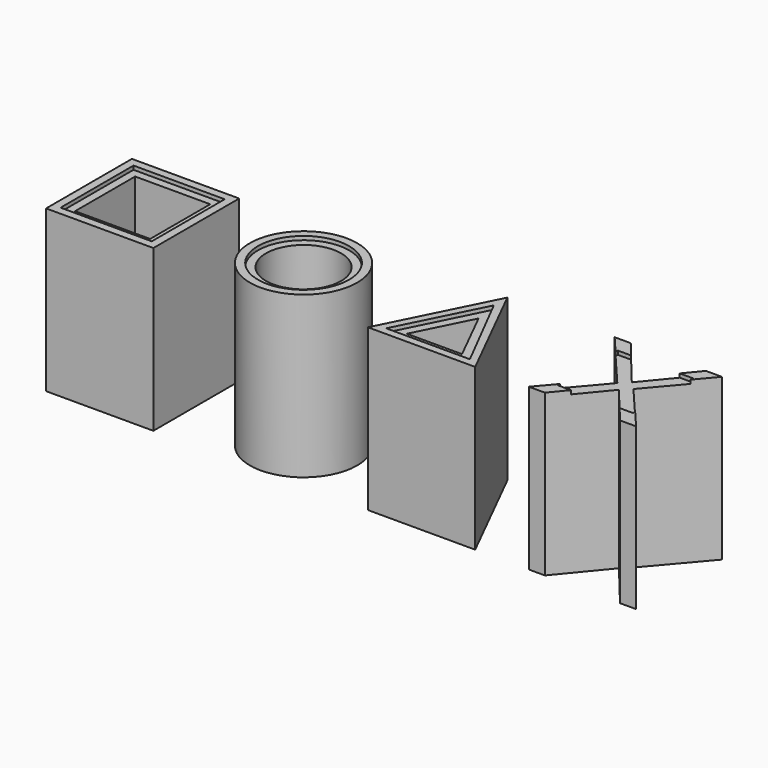
from build123d import *

# Parameters (mm, degrees)
F0_W      = 279.4
F0_H      = 50.8
F1_DEPTH  = 25.4
F2_W      = 50.8
F2_H      = 50.8
F3_DEPTH  = 127
F4_W      = 35.56
F4_H      = 35.56
F5_DEPTH  = 127
F6_R      = 25.4
F6_R_2    = 17.78
F7_DEPTH  = 127
F9_DEPTH  = 127
F11_DEPTH = 127
F12_W     = 305.3418546915
F12_H     = 65.0082696229
F13_DEPTH = 76.2
F14_W     = 43.18
F14_H     = 43.18
F15_DEPTH = 1.778
F16_R     = 21.59
F17_DEPTH = 1.778
F19_DEPTH = 1.778
F20_W     = 35.56
F20_H     = 35.56
F21_DEPTH = 1.778


with BuildPart() as f1:
    # F0 (on Top) → F1 (new body)
    with BuildSketch(Plane.XY):
        Rectangle(F0_W, F0_H)
    extrude(amount=-F1_DEPTH)


with BuildPart() as f3:
    # F2 (on face) → F3 (new body)
    with BuildSketch(Plane.XY):
        with Locations((-114.3, 0)):
            Rectangle(F2_W, F2_H)
    extrude(amount=F3_DEPTH)

    # F4 (on face) → F5 (cut)
    with BuildSketch(Plane.XY.offset(127)):
        with Locations((-114.3, 0)):
            Rectangle(F4_W, F4_H)
    extrude(amount=-F5_DEPTH, mode=Mode.SUBTRACT)


with BuildPart() as f7:
    # F6 (on face) → F7 (new body)
    with BuildSketch(Plane.XY):
        with Locations((-38.1, 0)):
            Circle(F6_R)
        with Locations((-38.1, 0)):
            Circle(F6_R_2, mode=Mode.SUBTRACT)
    extrude(amount=F7_DEPTH)


with BuildPart() as f9:
    # F8 (on face) → F9 (new body)
    with BuildSketch(Plane.XY):
        Polygon((38.1, 25.4), (12.7, -25.4), (63.5, -25.4), align=None)
        Polygon((25.0294189943, -17.78), (38.1, 8.3611620115), (51.1705810057, -17.78), align=None, mode=Mode.SUBTRACT)
    extrude(amount=F9_DEPTH)


with BuildPart() as f11:
    # F10 (on face) → F11 (new body)
    with BuildSketch(Plane.XY):
        Polygon((110.49, 0), (88.9, -25.4), (96.52, -25.4), (114.3, -3.81), (132.08, -25.4), (139.7, -25.4), (118.11, 0), (139.7, 25.4), (132.08, 25.4), (114.3, 3.81), (96.52, 25.4), (88.9, 25.4), align=None)
    extrude(amount=F11_DEPTH)


with BuildPart() as f13_tool:
    # F12 (on face) → F13 (new body)
    with BuildSketch(Plane(origin=(0, 0, -25.4), x_dir=(1, 0, 0), z_dir=(0, 0, -1))):
        with Locations((1.4108642936, 1.3167178258)):
            Rectangle(F12_W, F12_H)
    extrude(amount=-F13_DEPTH)


with BuildPart() as f1_1:
    add(f1.part)

    # F13: cut by f13_tool
    add(f13_tool.part, mode=Mode.SUBTRACT)


with BuildPart() as f3_1:
    add(f3.part)

    # F13: cut by f13_tool
    add(f13_tool.part, mode=Mode.SUBTRACT)

    # F14 (on face) → F15 (cut)
    with BuildSketch(Plane.XY.offset(127)):
        with Locations((-114.3, 0)):
            Rectangle(F14_W, F14_H)
    extrude(amount=-F15_DEPTH, mode=Mode.SUBTRACT)


with BuildPart() as f7_1:
    add(f7.part)

    # F13: cut by f13_tool
    add(f13_tool.part, mode=Mode.SUBTRACT)

    # F16 (on face) → F17 (cut)
    with BuildSketch(Plane.XY.offset(127)):
        with Locations((-38.1, 0)):
            Circle(F16_R)
    extrude(amount=-F17_DEPTH, mode=Mode.SUBTRACT)


with BuildPart() as f9_1:
    add(f9.part)

    # F13: cut by f13_tool
    add(f13_tool.part, mode=Mode.SUBTRACT)

    # F18 (on face) → F19 (cut)
    with BuildSketch(Plane.XY.offset(127)):
        Polygon((58.1177063286, -21.8175202608), (38.1, 17.4045137824), (18.4889829784, -21.8175202608), align=None)
    extrude(amount=-F19_DEPTH, mode=Mode.SUBTRACT)


with BuildPart() as f11_1:
    add(f11.part)

    # F13: cut by f13_tool
    add(f13_tool.part, mode=Mode.SUBTRACT)

    # F20 (on face) → F21 (cut)
    with BuildSketch(Plane.XY.offset(127)):
        with Locations((114.3, 0)):
            Rectangle(F20_W, F20_H)
    extrude(amount=-F21_DEPTH, mode=Mode.SUBTRACT)


solid = Compound([f3_1.part, f7_1.part, f9_1.part, f11_1.part])
